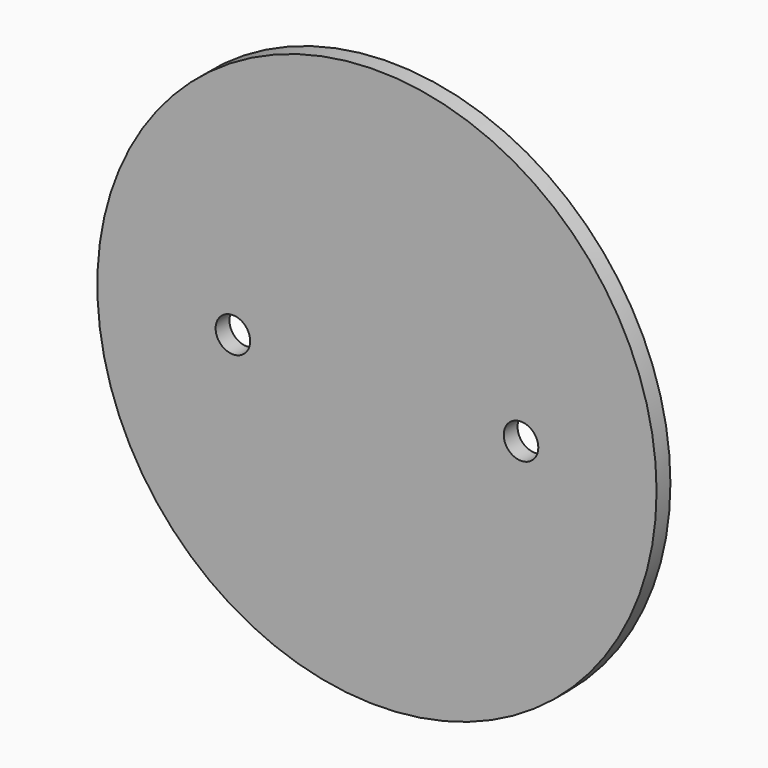
from build123d import *

# Parameters (mm, degrees)
F0_R     = 97.055
F0_R_2   = 6
F1_DEPTH = 6


with BuildPart() as f1:
    # F0 (on Front) → F1 (new body)
    with BuildSketch(Plane.XZ):
        Circle(F0_R)
        with Locations((-50, 0)):
            Circle(F0_R_2, mode=Mode.SUBTRACT)
        with Locations((50, 0)):
            Circle(F0_R_2, mode=Mode.SUBTRACT)
    extrude(amount=F1_DEPTH)


solid = f1.part
